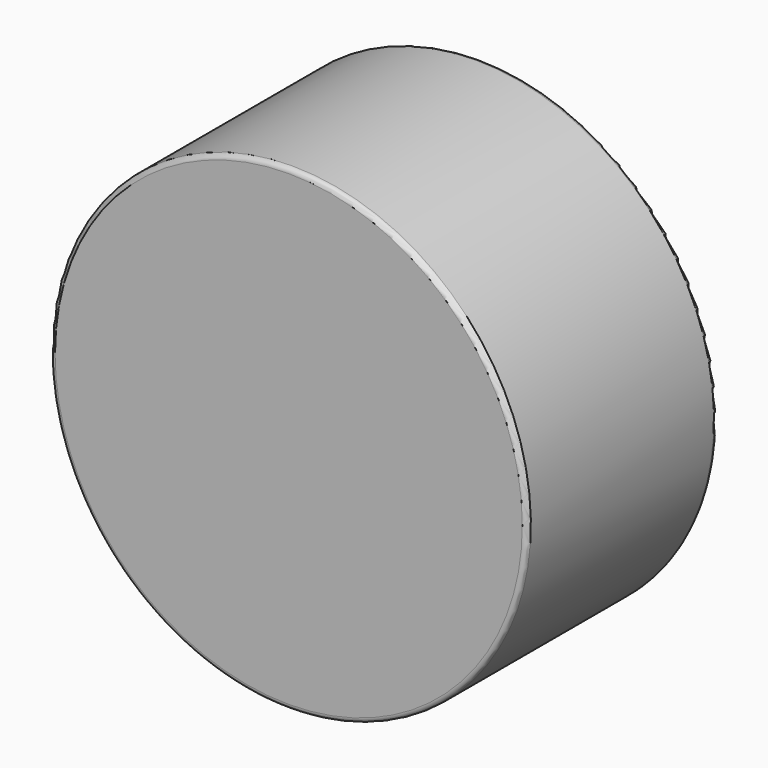
from build123d import *


with BuildPart() as f1:
    # F0 (on Right) → F1 (revolve)
    with BuildSketch(Plane.YZ):
        with BuildLine():
            Line((-12.7, 15.875), (-12.7, 16.594964))
            Line((-12.7, 16.594964), (-1.207143, 19.037846))
            ThreePointArc((-1.207143, 19.037846), (-0.33963, 19.569458), (0, 20.528543))
            Line((0, 20.528543), (0, 37.338))
            ThreePointArc((0, 37.338), (-0.223185, 37.876815), (-0.762, 38.1))
            Line((-0.762, 38.1), (-37.338, 38.1))
            ThreePointArc((-37.338, 38.1), (-37.876815, 37.876815), (-38.1, 37.338))
            Line((-38.1, 37.338), (-38.1, 0))
            Line((-38.1, 0), (-19.05, 0))
            Line((-19.05, 0), (-19.05, 15.875))
            Line((-19.05, 15.875), (-12.7, 15.875))
        make_face()
    revolve(axis=Axis((0, -28.575, 0), (0, 1, 0)))


solid = f1.part
